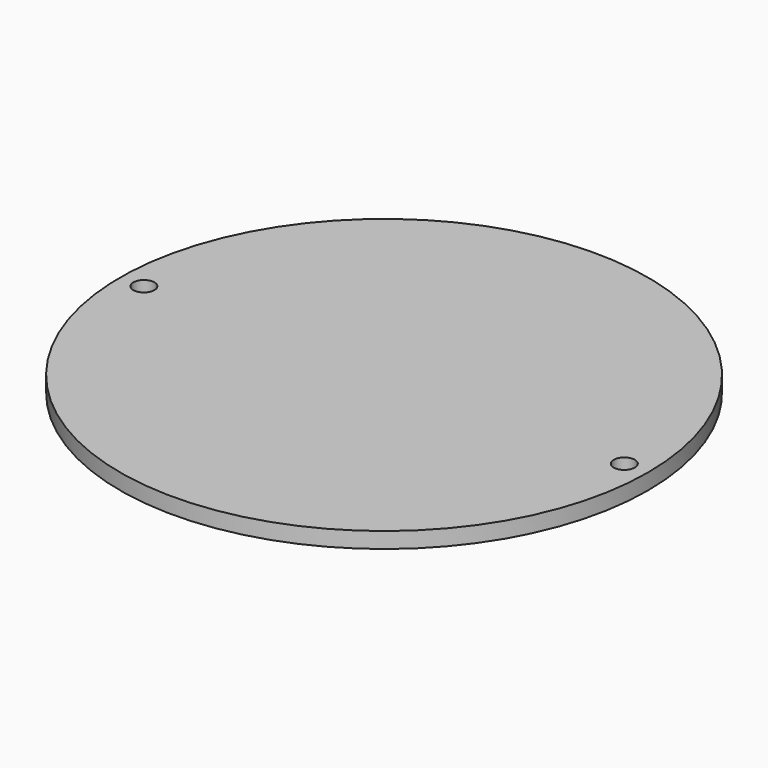
from build123d import *

# Parameters (mm, degrees)
SKETCH_R   = 50
SKETCH_R_2 = 2
PAD_DEPTH  = 3


with BuildPart() as part:
    # Sketch → Pad (new body)
    with BuildSketch(Plane.XY):
        Circle(SKETCH_R)
        with Locations((-45.5, 0)):
            Circle(SKETCH_R_2, mode=Mode.SUBTRACT)
        with Locations((45.5, 0)):
            Circle(SKETCH_R_2, mode=Mode.SUBTRACT)
    extrude(amount=PAD_DEPTH)


solid = part.part
